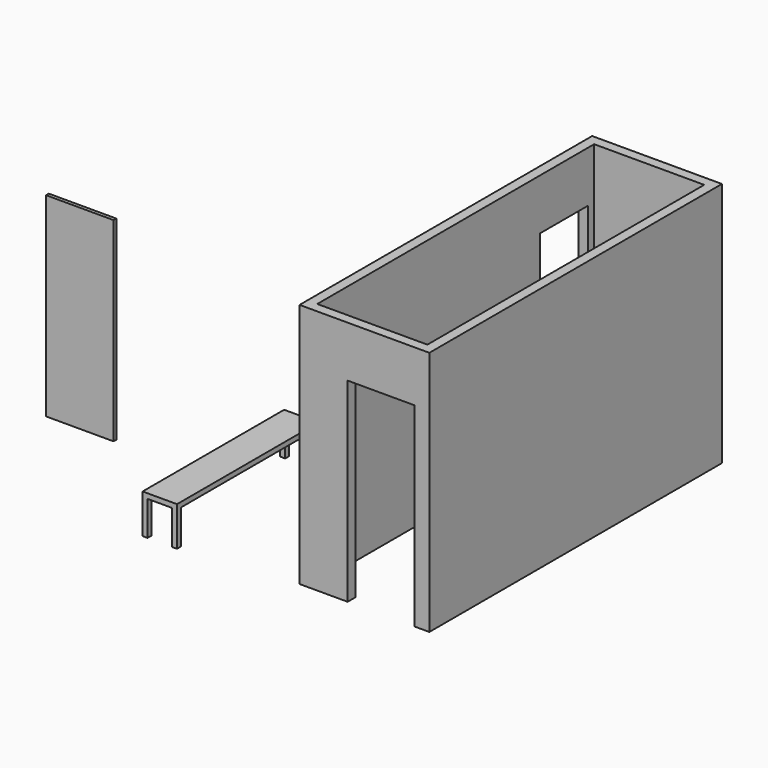
from build123d import *

# Parameters (mm, degrees)
F0_W      = 1320
F0_H      = 3720
F0_W_2    = 1120
F0_H_2    = 3520
F1_DEPTH  = 2500
F2_W      = 681
F2_H      = 1981
F3_DEPTH  = 100
F4_W      = 350
F4_H      = 1800
F5_DEPTH  = 50
F6_W      = 50
F6_H      = 50
F7_DEPTH  = 350
F8_W      = 610
F8_H      = 1981
F9_DEPTH  = 100
F10_W     = 686
F10_H     = 1981
F11_DEPTH = 35


with BuildPart() as f1:
    # F0 (on Top) → F1 (new body)
    with BuildSketch(Plane.XY):
        with Locations((1081.723574, 866.172806)):
            Rectangle(F0_W, F0_H)
        with Locations((1081.723574, 866.172806)):
            Rectangle(F0_W_2, F0_H_2, mode=Mode.SUBTRACT)
    extrude(amount=F1_DEPTH)

    # F2 (on face) → F3 (cut, through all)
    with BuildSketch(Plane.XZ.offset(993.827194)):
        with Locations((1251.223574, 990.5)):
            Rectangle(F2_W, F2_H)
    extrude(amount=-F3_DEPTH, mode=Mode.SUBTRACT)

    # F8 (on face) → F9 (cut, through all)
    with BuildSketch(Plane(origin=(421.723574, 0, 0), x_dir=(0, -1, 0), z_dir=(-1, 0, 0))):
        with Locations((-2245.172806, 990.5)):
            Rectangle(F8_W, F8_H)
    extrude(amount=-F9_DEPTH, mode=Mode.SUBTRACT)


with BuildPart() as f5:
    # F4 (on Top) → F5 (new body)
    with BuildSketch(Plane.XY):
        with Locations((-1312.079501, 296.127999)):
            Rectangle(F4_W, F4_H)
    extrude(amount=F5_DEPTH)

    # F6 (on face) → F7 (join)
    with BuildSketch(Plane(origin=(0, 0, 0), x_dir=(1, 0, 0), z_dir=(0, 0, -1))):
        with Locations((-1462.079501, 578.872001)):
            Rectangle(F6_W, F6_H)
        with Locations((-1162.079501, 578.872001)):
            Rectangle(F6_W, F6_H)
        with Locations((-1162.079501, -1171.127999)):
            Rectangle(F6_W, F6_H)
        with Locations((-1462.079501, -1171.127999)):
            Rectangle(F6_W, F6_H)
    extrude(amount=F7_DEPTH)


with BuildPart() as f11:
    # F10 (on Front) → F11 (new body)
    with BuildSketch(Plane.XZ):
        with Locations((-2608.887846, 990.5)):
            Rectangle(F10_W, F10_H)
    extrude(amount=-F11_DEPTH)


solid = Compound([f1.part, f5.part, f11.part])
